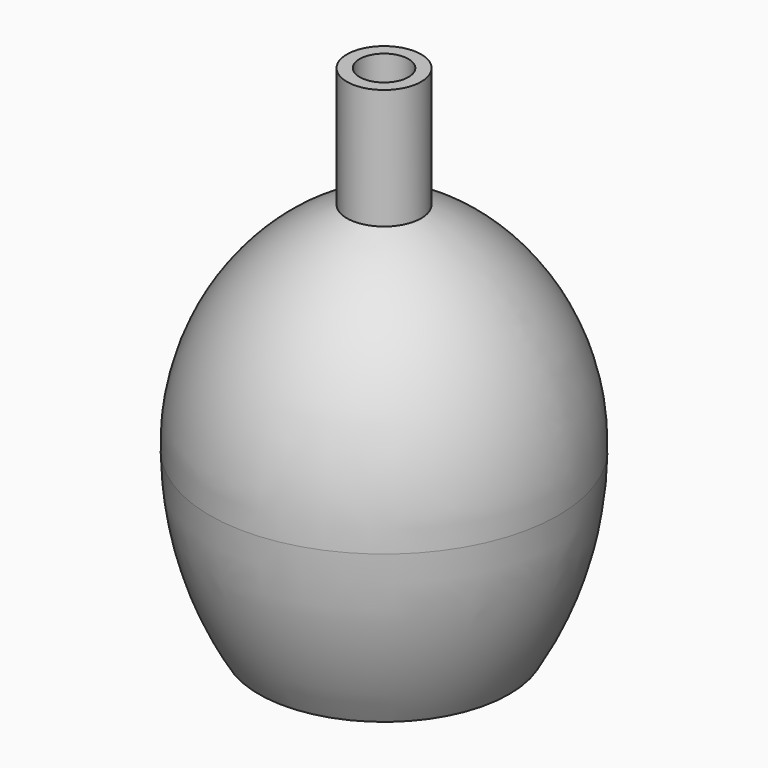
from build123d import *


with BuildPart() as f1:
    # F0 (on Front) → F1 (revolve)
    with BuildSketch(Plane.XZ):
        with BuildLine():
            Line((4.1, 43.075935), (4.1, 56.344669))
            Line((4.1, 56.344669), (2.7, 56.344669))
            Line((2.7, 56.344669), (2.7, 42.14222))
            ThreePointArc((2.7, 42.14222), (13.1318, 34.159302), (17.778806, 21.872937))
            ThreePointArc((17.778806, 21.872937), (16.907718, 11.28617), (13.021579, 1.4))
            Line((13.021579, 1.4), (0, 1.4))
            Line((0, 1.4), (0, 0))
            Line((0, 0), (13.822387, 0))
            ThreePointArc((13.822387, 0), (17.816502, 9.205343), (19.251609, 19.136696))
            ThreePointArc((19.251609, 19.136696), (15.33531, 33.422487), (4.1, 43.075935))
        make_face()
    revolve(axis=Axis((0, 0, 0.7), (0, 0, -1)))


solid = f1.part
